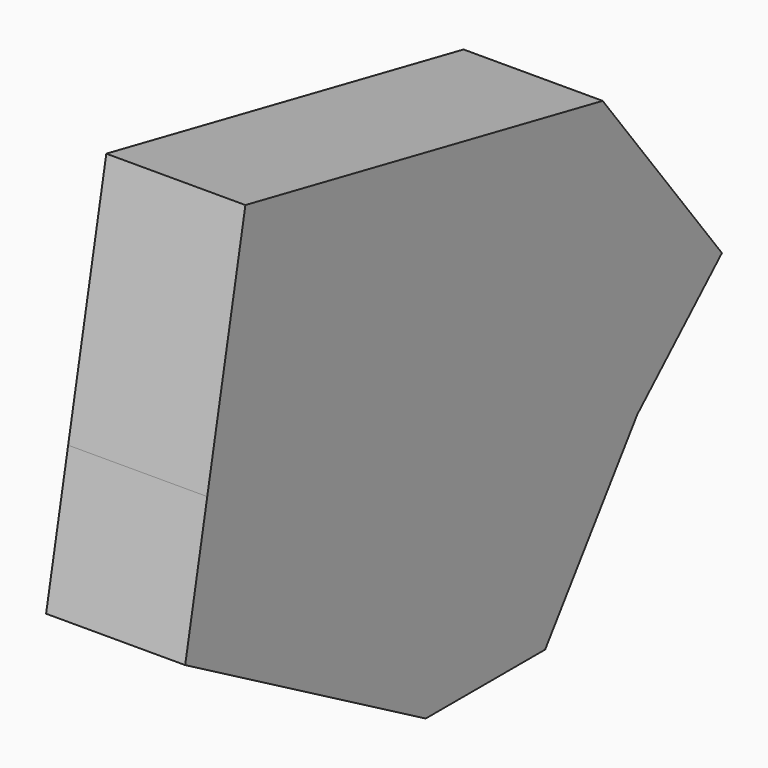
from build123d import *

# Parameters (mm, degrees)
F1_DEPTH = 25.4


with BuildPart() as f1:
    # F0 (on Right) → F1 (new body)
    with BuildSketch(Plane.YZ):
        with BuildLine():
            ThreePointArc((-24.040065, -2.404749), (-15.322377, 2.307721), (-8.596494, 9.585629))
            Line((-8.596494, 9.585629), (31.798963, 35.525549))
            Line((31.798963, 35.525549), (-49.745593, 51.922027))
            Line((-49.745593, 51.922027), (-58.456927, 8.597977))
            ThreePointArc((-58.456927, 8.597977), (-43.072743, -2.609687), (-24.040065, -2.404749))
        make_face()
        with BuildLine():
            Line((-8.596494, -47.351941), (-24.040065, -2.404749))
            ThreePointArc((-24.040065, -2.404749), (-43.072743, -2.609687), (-58.456927, 8.597977))
            Line((-58.456927, 8.597977), (-63.492449, -16.445173))
            Line((-63.492449, -16.445173), (-8.596494, -47.351941))
        make_face()
        with BuildLine():
            Line((-8.596494, -47.351941), (-8.596494, 9.585629))
            ThreePointArc((-8.596494, 9.585629), (-15.322377, 2.307721), (-24.040065, -2.404749))
            Line((-24.040065, -2.404749), (-8.596494, -47.351941))
        make_face()
        Polygon((18.671691, -6.052155), (-8.596494, 9.585629), (-8.596494, -47.351941), (18.671691, -47.351941), align=None)
        Polygon((39.702423, -18.112879), (18.671691, -6.052155), (18.671691, -47.351941), align=None)
        Polygon((18.671691, 9.585629), (-8.596494, 9.585629), (18.671691, -6.052155), align=None)
        Polygon((31.798963, 35.525549), (-8.596494, 9.585629), (18.671691, 9.585629), (18.671691, -6.052155), (39.702423, -18.112879), (59.021994, 0), align=None)
    extrude(amount=F1_DEPTH)


solid = f1.part
